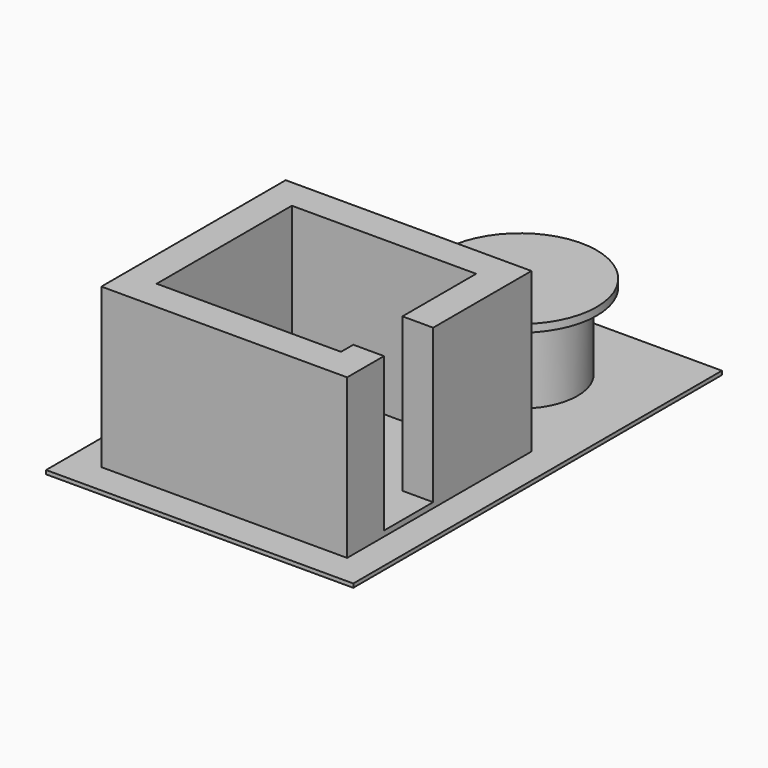
from build123d import *

# Parameters (mm, degrees)
F0_W      = 3200
F0_H      = 3000
F1_DEPTH  = 70
F3_DEPTH  = 2000
F4_W      = 4000
F4_H      = 6000
F5_DEPTH  = 50
F6_R      = 750
F7_DEPTH  = 500
F8_DEPTH  = 1000
F9_R      = 1000
F10_DEPTH = 100
F11_R     = 600
F12_DEPTH = 2070.001


with BuildPart() as f1:
    # F0 (on Top) → F1 (new body)
    with BuildSketch(Plane.XY):
        Rectangle(F0_W, F0_H)
    extrude(amount=F1_DEPTH)

    # F2 (on face) → F3 (join)
    with BuildSketch(Plane.XY.offset(70)):
        Polygon((1200, -1100), (-1200, -1100), (-1200, 1100), (1200, 1100), (1200, -100), (1600, -100), (1600, 1500), (-1600, 1500), (-1600, -1500), (1600, -1500), (1600, -900), (1200, -900), align=None)
    extrude(amount=F3_DEPTH)


with BuildPart() as f5:
    # F4 (on face) → F5 (new body)
    with BuildSketch(Plane(origin=(0, 0, 0), x_dir=(1, 0, 0), z_dir=(0, 0, -1))):
        with Locations((0, -1100)):
            Rectangle(F4_W, F4_H)
    extrude(amount=F5_DEPTH)

    # F6 (on face) → F7 (cut)
    with BuildSketch(Plane.XY):
        with Locations((450, 2750)):
            Circle(F6_R)
    extrude(amount=-F7_DEPTH, mode=Mode.SUBTRACT)


with BuildPart() as f8:
    # F6 (on face) → F8 (new body)
    with BuildSketch(Plane.XY):
        with Locations((450, 2750)):
            Circle(F6_R)
    extrude(amount=F8_DEPTH)

    # F11 (on face) → F12 (cut, through all)
    with BuildSketch(Plane(origin=(0, 0, 0), x_dir=(1, 0, 0), z_dir=(0, 0, -1))):
        with Locations((450, -2750)):
            Circle(F11_R)
    extrude(amount=-F12_DEPTH, mode=Mode.SUBTRACT)


with BuildPart() as f10:
    # F9 (on face) → F10 (new body)
    with BuildSketch(Plane.XY.offset(1000)):
        with Locations((450, 2750)):
            Circle(F9_R)
    extrude(amount=F10_DEPTH)


solid = Compound([f1.part, f5.part, f8.part, f10.part])
